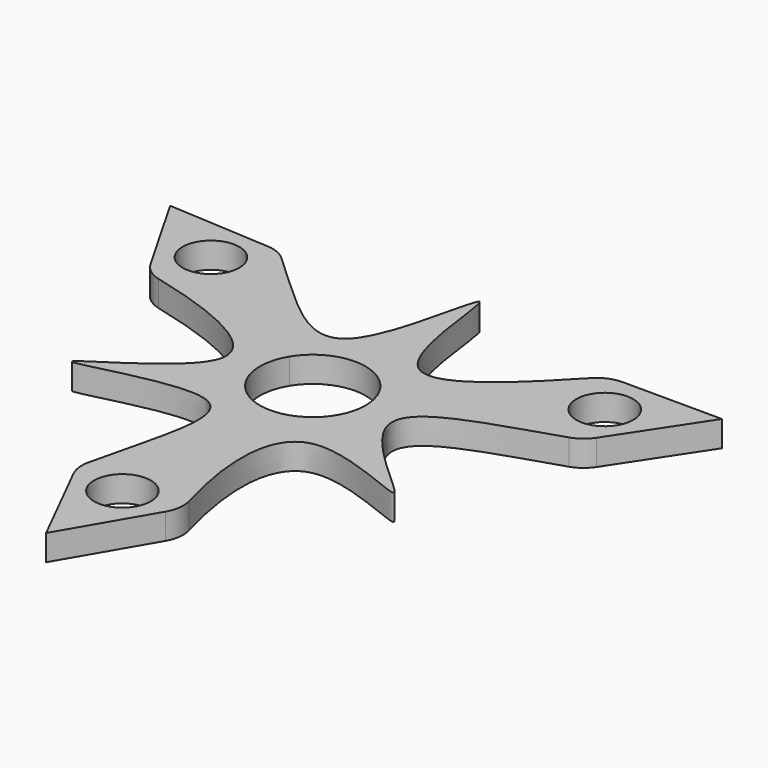
from build123d import *

# Parameters (mm, degrees)
F0_R     = 5.5
F1_DEPTH = 5


with BuildPart() as f1:
    # F0 (on Top) → F1 (new body)
    with BuildSketch(Plane.XY):
        with BuildLine():
            ThreePointArc((-123.454453447, 65.3151555893), (-121.7663574138, 63.4022043185), (-119.4615999517, 62.3080636407))
            add(Edge.make_bspline(
                [(-119.4615999517, 62.3080636407), (-106.889827256, 59.2186889189), (-81.6138606751, 49.4863089686), (-128.5390529231, 26.2353078081), (-78.512134077, 44.391657981), (-87.0833909997, 22.8160801023), (-90.1914235073, 8.6158038469)],
                knots=[0.0175585914, 0.0175585914, 0.0175585914, 0.0175585914, 0.2686273551, 0.4984416776, 0.7343687536, 0.9869761756, 0.9869761756, 0.9869761756, 0.9869761756], degree=3))
            ThreePointArc((-90.1914235073, 8.6158038469), (-90.2889406174, 6.4681786044), (-89.6642682776, 4.4110961469))
            Line((-89.6642682776, 4.4110961469), (-80.7298521147, -13.4011661301))
            Line((-80.7298521147, -13.4011661301), (-70.978691941, 3.3786438275))
            ThreePointArc((-70.978691941, 3.3786438275), (-70.1687281076, 5.7757003386), (-70.3590390253, 8.2987348377))
            add(Edge.make_bspline(
                [(-70.3590390253, 8.2987348377), (-73.8174434006, 20.5160301913), (-75.7733310805, 44.0580704633), (-34.8971941812, 21.633550201), (-74.8590732231, 50.432934634), (-52.7105913555, 55.8543498878), (-38.4691335991, 60.5269977111)],
                knots=[0.0175029456, 0.0175029456, 0.0175029456, 0.0175029456, 0.2683935657, 0.4938577879, 0.7266397986, 0.9872208497, 0.9872208497, 0.9872208497, 0.9872208497], degree=3))
            ThreePointArc((-38.4691335991, 60.5269977111), (-36.5918006186, 61.5160919848), (-35.1451609566, 63.0684837814))
            Line((-35.1451609566, 63.0684837814), (-24.1770567157, 79.7263844148))
            Line((-24.1770567157, 79.7263844148), (-43.4279310744, 79.7807897233))
            ThreePointArc((-43.4279310744, 79.7807897233), (-45.962266866, 79.2609335546), (-48.0789085452, 77.773339409))
            add(Edge.make_bspline(
                [(-48.0789085452, 77.773339409), (-56.6635447616, 68.6144059221), (-75.2787125439, 50.9573690507), (-75.9849022571, 104.0371838867), (-82.1243978848, 51.1572327244), (-98.2996169235, 69.388510498), (-109.3193748229, 79.3427103013)],
                knots=[0.0178591528, 0.0178591528, 0.0178591528, 0.0178591528, 0.2626121663, 0.4964922851, 0.7302626549, 0.9871330472, 0.9871330472, 0.9871330472, 0.9871330472], degree=3))
            ThreePointArc((-109.3193748229, 79.3427103013), (-111.1226408323, 80.4875079904), (-113.2034830438, 80.9696135185))
            Line((-113.2034830438, 80.9696135185), (-133.1042789793, 82.1387666129))
            Line((-133.1042789793, 82.1387666129), (-123.454453447, 65.3151555893))
        make_face()
        with Locations((-80.3311256108, 4.602685229)):
            Circle(F0_R, mode=Mode.SUBTRACT)
        with BuildLine():
            ThreePointArc((-113.0107661328, 69.9367456834), (-120.5666375566, 68.0904501962), (-122.4129330438, 75.6463216201))
            ThreePointArc((-122.4129330438, 75.6463216201), (-116.2296146213, 78.0880400005), (-112.2118495883, 72.7915336518))
            ThreePointArc((-112.2118495883, 72.7915336518), (-112.4153432395, 71.3092986848), (-113.0107661328, 69.9367456834))
        make_face(mode=Mode.SUBTRACT)
        with BuildLine():
            ThreePointArc((-69.0870626032, 49.4879949658), (-82.0994095871, 39.617233134), (-88.0981726795, 54.8082816341))
            ThreePointArc((-88.0981726795, 54.8082816341), (-76.5747156194, 59.3587567977), (-69.0870626032, 49.4879949658))
        make_face(mode=Mode.SUBTRACT)
        with Locations((-39.9682126106, 71.0697660168)):
            Circle(F0_R, mode=Mode.SUBTRACT)
    extrude(amount=F1_DEPTH)


solid = f1.part
